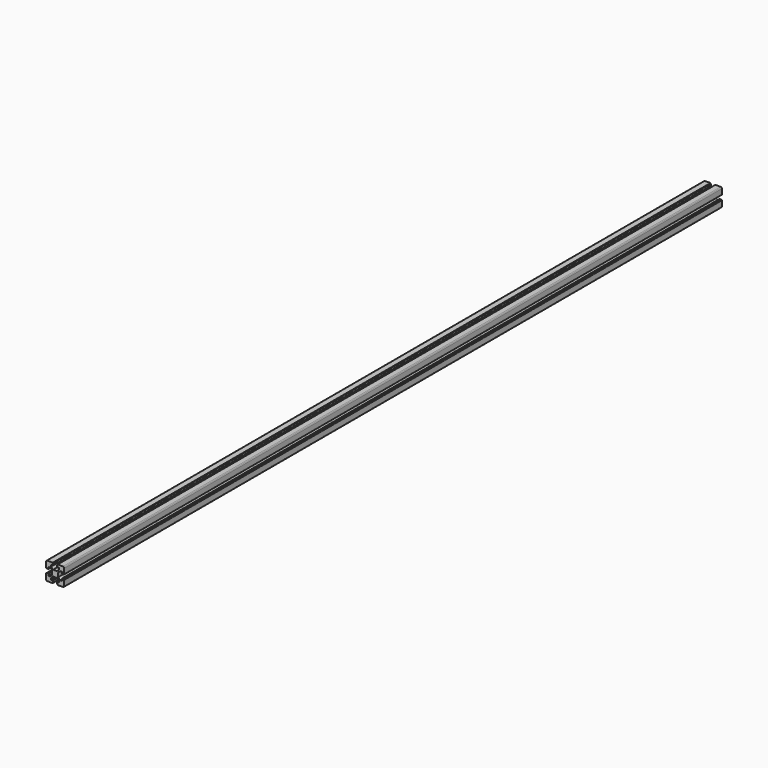
from build123d import *

# Parameters (mm, degrees)
F1_DEPTH = 2044


with BuildPart() as f1:
    # F0 (on Front) → F1 (new body)
    with BuildSketch(Plane.XZ):
        with BuildLine():
            Line((93.5, 122.5), (80.5, 122.5))
            ThreePointArc((80.5, 122.5), (79.35195, 122.271639), (78.37868, 121.62132))
            ThreePointArc((78.37868, 121.62132), (77.728361, 120.64805), (77.5, 119.5))
            Line((77.5, 119.5), (77.5, 106.5))
            ThreePointArc((77.5, 106.5), (77.792893, 105.792893), (78.5, 105.5))
            Line((78.5, 105.5), (79, 105.5))
            Line((79, 105.5), (79, 105))
            Line((79, 105), (83.5, 105))
            Line((83.5, 105), (83.5, 110))
            Line((83.5, 110), (87.5, 110))
            Line((87.5, 110), (92.5, 105))
            Line((92.5, 105), (92.5, 100))
            Line((92.5, 100), (92.5, 95))
            Line((92.5, 95), (87.5, 90))
            Line((87.5, 90), (83.5, 90))
            Line((83.5, 90), (83.5, 95))
            Line((83.5, 95), (79, 95))
            Line((79, 95), (79, 94.5))
            Line((79, 94.5), (78.5, 94.5))
            ThreePointArc((78.5, 94.5), (77.792893, 94.207107), (77.5, 93.5))
            Line((77.5, 93.5), (77.5, 80.5))
            ThreePointArc((77.5, 80.5), (77.728361, 79.35195), (78.37868, 78.37868))
            ThreePointArc((78.37868, 78.37868), (79.35195, 77.728361), (80.5, 77.5))
            Line((80.5, 77.5), (93.5, 77.5))
            ThreePointArc((93.5, 77.5), (94.207107, 77.792893), (94.5, 78.5))
            Line((94.5, 78.5), (94.5, 79))
            Line((94.5, 79), (95, 79))
            Line((95, 79), (95, 83.5))
            Line((95, 83.5), (90, 83.5))
            Line((90, 83.5), (90, 87.5))
            Line((90, 87.5), (95, 92.5))
            Line((95, 92.5), (100, 92.5))
            Line((100, 92.5), (105, 92.5))
            Line((105, 92.5), (110, 87.5))
            Line((110, 87.5), (110, 83.5))
            Line((110, 83.5), (105, 83.5))
            Line((105, 83.5), (105, 79))
            Line((105, 79), (105.5, 79))
            Line((105.5, 79), (105.5, 78.5))
            ThreePointArc((105.5, 78.5), (105.792893, 77.792893), (106.5, 77.5))
            Line((106.5, 77.5), (119.5, 77.5))
            ThreePointArc((119.5, 77.5), (120.64805, 77.728361), (121.62132, 78.37868))
            ThreePointArc((121.62132, 78.37868), (122.271639, 79.35195), (122.5, 80.5))
            Line((122.5, 80.5), (122.5, 93.5))
            ThreePointArc((122.5, 93.5), (122.207107, 94.207107), (121.5, 94.5))
            Line((121.5, 94.5), (121, 94.5))
            Line((121, 94.5), (121, 95))
            Line((121, 95), (116.5, 95))
            Line((116.5, 95), (116.5, 90))
            Line((116.5, 90), (112.5, 90))
            Line((112.5, 90), (107.5, 95))
            Line((107.5, 95), (107.5, 100))
            Line((107.5, 100), (107.5, 105))
            Line((107.5, 105), (112.5, 110))
            Line((112.5, 110), (116.5, 110))
            Line((116.5, 110), (116.5, 105))
            Line((116.5, 105), (121, 105))
            Line((121, 105), (121, 105.5))
            Line((121, 105.5), (121.5, 105.5))
            ThreePointArc((121.5, 105.5), (122.207107, 105.792893), (122.5, 106.5))
            Line((122.5, 106.5), (122.5, 119.5))
            ThreePointArc((122.5, 119.5), (122.271639, 120.64805), (121.62132, 121.62132))
            ThreePointArc((121.62132, 121.62132), (120.64805, 122.271639), (119.5, 122.5))
            Line((119.5, 122.5), (106.5, 122.5))
            ThreePointArc((106.5, 122.5), (105.792893, 122.207107), (105.5, 121.5))
            Line((105.5, 121.5), (105.5, 121))
            Line((105.5, 121), (105, 121))
            Line((105, 121), (105, 116.5))
            Line((105, 116.5), (110, 116.5))
            Line((110, 116.5), (110, 112.5))
            Line((110, 112.5), (105, 107.5))
            Line((105, 107.5), (100, 107.5))
            Line((100, 107.5), (95, 107.5))
            Line((95, 107.5), (90, 112.5))
            Line((90, 112.5), (90, 116.5))
            Line((90, 116.5), (95, 116.5))
            Line((95, 116.5), (95, 121))
            Line((95, 121), (94.5, 121))
            Line((94.5, 121), (94.5, 121.5))
            ThreePointArc((94.5, 121.5), (94.207107, 122.207107), (93.5, 122.5))
        make_face()
    extrude(amount=F1_DEPTH)


solid = f1.part
